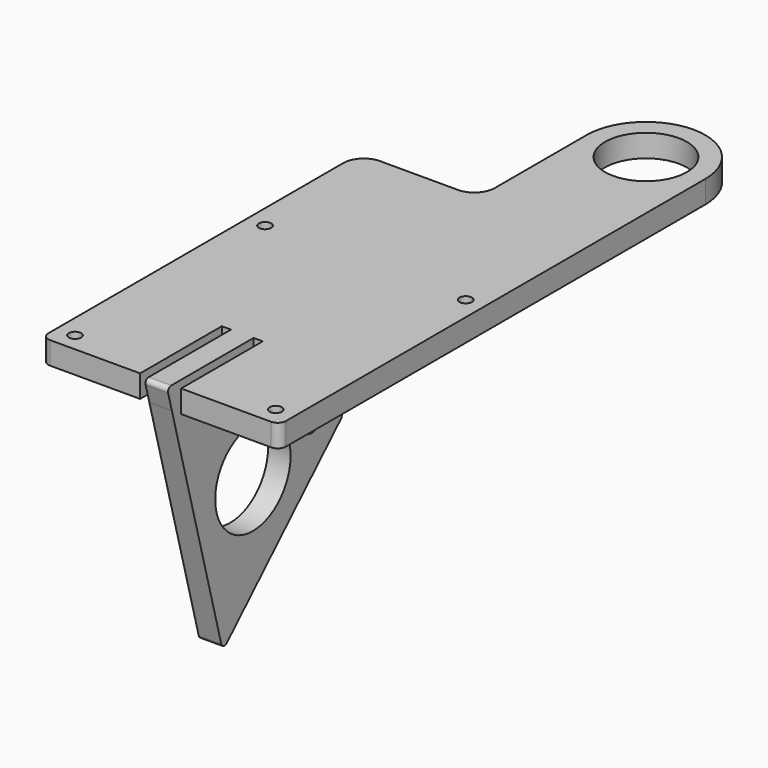
from build123d import *

# Parameters (mm, degrees)
F0_R      = 10
F1_DEPTH  = 5.5
F2_R      = 1.5
F3_DEPTH  = 5.5
F4_W      = 5
F4_H      = 24.9248821884
F5_DEPTH  = 5.5
F6_R      = 11.5
F7_DEPTH  = 2.75
F8_R      = 1
F10_DEPTH = 5.5
F11_R     = 1


with BuildPart() as f1:
    # F0 (on Top) → F1 (new body)
    with BuildSketch(Plane.XY):
        with BuildLine():
            Line((-27, -48.5), (27, -48.5))
            ThreePointArc((27, -48.5), (28.4142135624, -47.9142135624), (29, -46.5))
            Line((29, -46.5), (29, 81.5))
            ThreePointArc((29, 81.5), (14.5, 96), (0, 81.5))
            Line((0, 81.5), (0, 53.5))
            ThreePointArc((0, 53.5), (-1.4644660941, 49.9644660941), (-5, 48.5))
            Line((-5, 48.5), (-24, 48.5))
            ThreePointArc((-24, 48.5), (-27.5355339059, 47.0355339059), (-29, 43.5))
            Line((-29, 43.5), (-29, -46.5))
            ThreePointArc((-29, -46.5), (-28.4142135624, -47.9142135624), (-27, -48.5))
        make_face()
        with Locations((14.5, 81.5)):
            Circle(F0_R, mode=Mode.SUBTRACT)
    extrude(amount=F1_DEPTH)

    # F2 (on face) → F3 (cut, through all)
    with BuildSketch(Plane.XY.offset(5.5)):
        with Locations((-24.5, 14)):
            Circle(F2_R)
        with Locations((24.5, 14)):
            Circle(F2_R)
        with Locations((24.5, -44)):
            Circle(F2_R)
        with Locations((-24.5, -44)):
            Circle(F2_R)
    extrude(amount=-F3_DEPTH, mode=Mode.SUBTRACT)

    # F4 (on face) → F5 (cut, through all)
    with BuildSketch(Plane.XY.offset(5.5)):
        with Locations((2.5, -36.0375589058)):
            Rectangle(F4_W, F4_H)
        with Locations((-2.5, -36.0375589058)):
            Rectangle(F4_W, F4_H)
    extrude(amount=-F5_DEPTH, mode=Mode.SUBTRACT)

    # F6 (on Right) → F7 (join, symmetric)
    with BuildSketch(Plane.YZ):
        with BuildLine():
            Line((-49.9737205584, 5.5), (-48.5, 0))
            Line((-48.5, 0), (-32.9708572938, -57.9555495773))
            Line((-32.9708572938, -57.9555495773), (24.6665156112, -1.715730829))
            ThreePointArc((24.6665156112, -1.715730829), (24.8943496088, -0.6229925922), (23.9681393656, 0))
            Line((23.9681393656, 0), (-23.5751178116, 0))
            Line((-23.5751178116, 0), (-23.5751178116, 5.5))
            Line((-23.5751178116, 5.5), (-48.5, 5.5))
            Line((-48.5, 5.5), (-49.9737205584, 5.5))
        make_face()
        with Locations((-23.7671827683, -24.4311470085)):
            Circle(F6_R, mode=Mode.SUBTRACT)
    extrude(amount=F7_DEPTH, both=True)

    # F8
    f8_edges = [f1.edges().sort_by_distance(p)[0] for p in [
        (0, -49.973721, 5.5),
        (0, -32.970857, -57.95555),
    ]]
    fillet(f8_edges, radius=F8_R)

    # F9 (on face) → F10 (cut, through all)
    with BuildSketch(Plane.YZ.offset(2.75)):
        with BuildLine():
            ThreePointArc((-7.9046124855, -17.0336287316), (-7.9432792247, -21.2895926303), (-3.6871553257, -21.3011330035))
            Line((-3.6871553257, -21.3011330035), (-0.2292870065, -17.9271088638))
            Line((-0.2292870065, -17.9271088638), (3.8098796459, -22.0666484241))
            Line((3.8098796459, -22.0666484241), (7.6828757476, -18.2875622549))
            Line((7.6828757476, -18.2875622549), (3.5909387901, -14.1995134591))
            Line((3.5909387901, -14.1995134591), (7.0488071093, -10.8254893195))
            ThreePointArc((7.0488071093, -10.8254893195), (7.0602741622, -6.596406123), (2.8313499495, -6.5579850476))
            Line((2.8313499495, -6.5579850476), (-7.9046124855, -17.0336287316))
        make_face()
    extrude(amount=-F10_DEPTH, mode=Mode.SUBTRACT)

    # F11
    f11_edges = [f1.edges().sort_by_distance(p)[0] for p in [
        (0, -0.229287, -17.927109),
        (0, 3.590939, -14.199513),
        (0, 7.682876, -18.287562),
        (0, 3.80988, -22.066648),
    ]]
    fillet(f11_edges, radius=F11_R)


solid = f1.part
